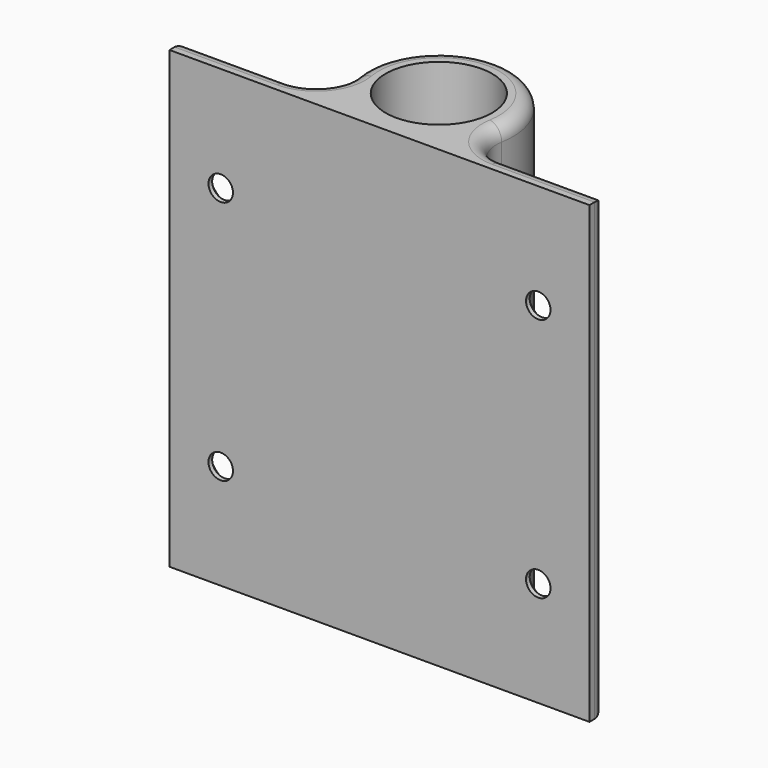
from build123d import *

# Parameters (mm, degrees)
F0_R           = 7.6
F1_DEPTH       = 5
F2_R           = 7.6
F3_DEPTH       = 60
F4_R           = 5
F6_D           = 3.5
F6_CSINK_D     = 8
F6_CSINK_ANGLE = 90
F7_R           = 2


with BuildPart() as f1:
    # F0 (on Top) → F1 (new body)
    with BuildSketch(Plane.XY):
        with BuildLine():
            Line((30, -7.691861), (7.293509, -7.691861))
            ThreePointArc((7.293509, -7.691861), (0, 10.6), (-7.293509, -7.691861))
            Line((-7.293509, -7.691861), (-30, -7.691861))
            Line((-30, -7.691861), (-30, -10.6))
            Line((-30, -10.6), (0, -10.6))
            Line((0, -10.6), (30, -10.6))
            Line((30, -10.6), (30, -7.691861))
        make_face()
        Circle(F0_R, mode=Mode.SUBTRACT)
        Circle(F0_R)
    extrude(amount=F1_DEPTH)

    # F2 (on face) → F3 (join)
    with BuildSketch(Plane.XY.offset(5)):
        with BuildLine():
            Line((30, -7.691861), (7.293509, -7.691861))
            ThreePointArc((7.293509, -7.691861), (0, 10.6), (-7.293509, -7.691861))
            Line((-7.293509, -7.691861), (-30, -7.691861))
            Line((-30, -7.691861), (-30, -10.6))
            Line((-30, -10.6), (30, -10.6))
            Line((30, -10.6), (30, -7.691861))
        make_face()
        Circle(F2_R, mode=Mode.SUBTRACT)
    extrude(amount=F3_DEPTH)

    # F4
    f4_edges = [f1.edges().sort_by_distance(p)[0] for p in [
        (-7.293509, -7.691861, 32.5),
        (7.293509, -7.691861, 32.5),
    ]]
    fillet(f4_edges, radius=F4_R)

    # F6 (through all)
    with Locations(Plane(origin=(0, -7.691861, 0), x_dir=(-1, 0, 0), z_dir=(0, 1, 0))):
        with Locations((-22.682999, 50), (-22.682999, 15), (22.682999, 50), (22.682999, 15)):
            CounterSinkHole(F6_D / 2, F6_CSINK_D / 2, counter_sink_angle=F6_CSINK_ANGLE)

    # F7
    f7_edges = [f1.edges().sort_by_distance(p)[0] for p in [
        (0, 10.6, 65),
        (-30, -7.691861, 32.5),
        (30, -7.691861, 32.5),
        (22.682999, -7.691861, 0),
        (0, 10.6, 0),
    ]]
    fillet(f7_edges, radius=F7_R)


solid = f1.part
